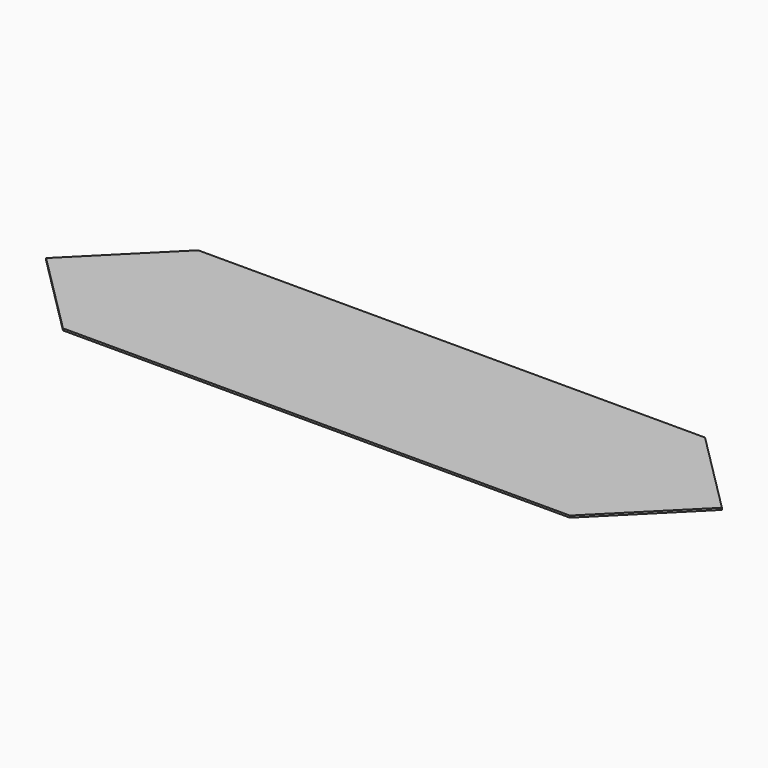
from build123d import *

# Parameters (mm, degrees)
PAD_DEPTH = 0.2


with BuildPart() as part:
    # Sketch → Pad (new body)
    with BuildSketch(Plane.XY):
        Polygon((-26.25, 8.75), (26.25, 8.75), (35, 0), (26.25, -8.75), (-26.25, -8.75), (-35, 0), align=None)
    extrude(amount=PAD_DEPTH)


solid = part.part
